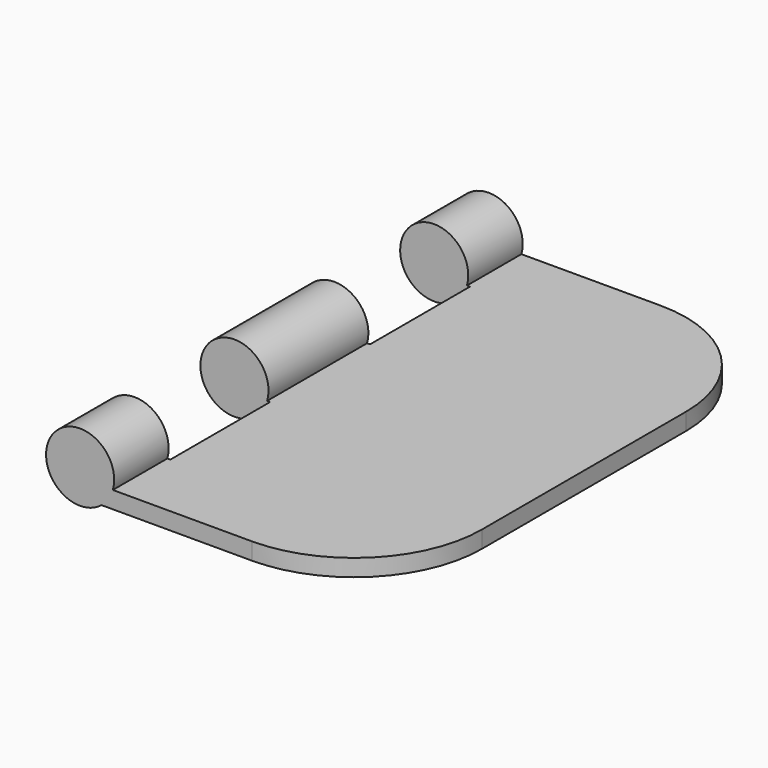
from build123d import *

# Parameters (mm, degrees)
F1_DEPTH      = 2.54
F3_DEPTH      = 76.2
F4_W          = 16.2733292935
F4_H          = 18.6266666667
F4_W_2        = 0.444823617
F5_DEPTH      = 3.6743734411
F5_DEPTH_BACK = 6.4876265589


with BuildPart() as f1:
    # F0 (on Top) → F1 (new body)
    with BuildSketch(Plane.XY):
        with BuildLine():
            Line((0, 76.2), (0, 0))
            Line((0, 0), (20.32, 0))
            ThreePointArc((20.32, 0), (33.7903841816, 5.5796158184), (39.37, 19.05))
            Line((39.37, 19.05), (39.37, 57.15))
            ThreePointArc((39.37, 57.15), (33.7903841816, 70.6203841816), (20.32, 76.2))
            Line((20.32, 76.2), (0, 76.2))
        make_face()
    extrude(amount=F1_DEPTH)

    # F2 (on face) → F3 (join, through all)
    with BuildSketch(Plane.XZ):
        with BuildLine():
            Line((0, 2.54), (-0.444823617, 2.54))
            ThreePointArc((-0.444823617, 2.54), (-9.5610605276, 6.7523933173), (-2.1276752047, 0))
            Line((-2.1276752047, 0), (0, 0))
            Line((0, 0), (0, 2.54))
        make_face()
    extrude(amount=-F3_DEPTH)

    # F4 (on face) → F5 (cut, two sides)
    with BuildSketch(Plane.XY.offset(2.54)) as f5_sk:
        with Locations((-8.5814882637, 56.7266666667)):
            Rectangle(F4_W, F4_H)
        with Locations((-0.2224118085, 56.7266666667)):
            Rectangle(F4_W_2, F4_H)
        with Locations((-8.5814882637, 19.4733333333)):
            Rectangle(F4_W, F4_H)
        with Locations((-0.2224118085, 19.4733333333)):
            Rectangle(F4_W_2, F4_H)
    extrude(amount=-F5_DEPTH, mode=Mode.SUBTRACT)
    extrude(f5_sk.sketch, amount=F5_DEPTH_BACK, mode=Mode.SUBTRACT)


solid = f1.part
